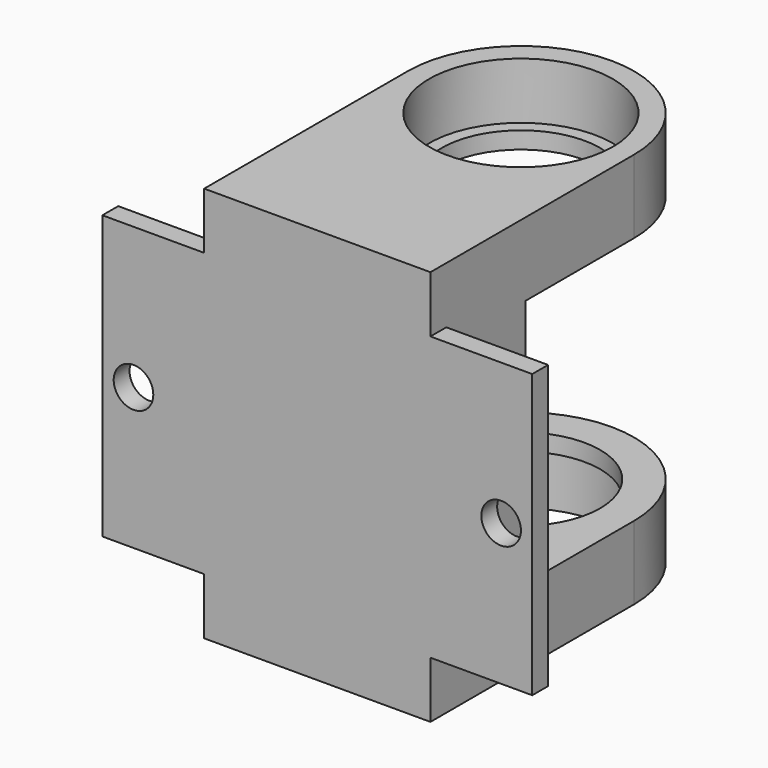
from build123d import *

# Parameters (mm, degrees)
SKETCH002_AS_DRAWN_W                 = 76
SKETCH002_AS_DRAWN_H                 = 50
SKETCH002_AS_DRAWN_R                 = 3.5
EXTRUDE003_DEPTH                     = 3.5
EXTRUDE003_ONTO_SKETCH002_ROLL_ANGLE = 90
CYLINDER_R                           = 16.25
CYLINDER_DEPTH                       = 10
SKETCH_R                             = 14
EXTRUDE001_DEPTH                     = 13
CYLINDER001_R                        = 16.25
CYLINDER001_DEPTH                    = 10
EXTRUDE_DEPTH                        = 13
SKETCH001_AS_DRAWN_W                 = 40
SKETCH001_AS_DRAWN_H                 = 70
EXTRUDE002_DEPTH                     = 21
EXTRUDE002_ONTO_SKETCH001_ROLL_ANGLE = 90


with BuildPart() as extrude003:
    # Sketch002 as drawn → Extrude003 (new)
    with BuildSketch(Plane.XY):
        Rectangle(SKETCH002_AS_DRAWN_W, SKETCH002_AS_DRAWN_H)
        with Locations((-32.5, 0)):
            Circle(SKETCH002_AS_DRAWN_R, mode=Mode.SUBTRACT)
        with Locations((32.5, 0)):
            Circle(SKETCH002_AS_DRAWN_R, mode=Mode.SUBTRACT)
    extrude(amount=-EXTRUDE003_DEPTH)


with BuildPart() as extrude003_1:
    # Extrude003 onto Sketch002 roll: moved
    add(extrude003.part.rotate(Axis((0, 0, 0), (1, 0, 0)), EXTRUDE003_ONTO_SKETCH002_ROLL_ANGLE))


with BuildPart() as extrude003_2:
    # Extrude003 onto Sketch002 placement: moved
    add(extrude003_1.part)


with BuildPart() as extrude003_3:
    # Extrude003 placement: moved
    add(extrude003_2.part.moved(Location((0, -45, 0))))


with BuildPart() as cylinder:
    # Cylinder → Cylinder (new body)
    with BuildSketch(Plane.XY):
        Circle(CYLINDER_R)
    extrude(amount=CYLINDER_DEPTH)


with BuildPart() as obj1:
    # Sketch → Extrude001 (new body)
    with BuildSketch(Plane.XY):
        with BuildLine():
            ThreePointArc((20, 0), (0, 20), (-20, 0))
            Line((-20, 0), (-20, -35))
            Line((-20, -35), (20, -35))
            Line((20, -35), (20, 0))
        make_face()
        Circle(SKETCH_R, mode=Mode.SUBTRACT)
    extrude(amount=EXTRUDE001_DEPTH)

    # Cut: cut Cylinder
    add(cylinder.part, mode=Mode.SUBTRACT)


with BuildPart() as obj1_1:
    # Cut placement: moved
    add(obj1.part.moved(Location((0, 0, -35))))


with BuildPart() as cylinder001:
    # Cylinder001 → Cylinder001 (new body)
    with BuildSketch(Plane.XY.offset(3)):
        Circle(CYLINDER001_R)
    extrude(amount=CYLINDER001_DEPTH)


with BuildPart() as bearing_nest_r_cut:
    # Sketch → Extrude (new body)
    with BuildSketch(Plane.XY):
        with BuildLine():
            ThreePointArc((20, 0), (0, 20), (-20, 0))
            Line((-20, 0), (-20, -35))
            Line((-20, -35), (20, -35))
            Line((20, -35), (20, 0))
        make_face()
        Circle(SKETCH_R, mode=Mode.SUBTRACT)
    extrude(amount=EXTRUDE_DEPTH)

    # Cut001: cut Cylinder001
    add(cylinder001.part, mode=Mode.SUBTRACT)


with BuildPart() as bearing_nest_r_cut_1:
    # Cut001 placement: moved
    add(bearing_nest_r_cut.part.moved(Location((0, 0, 22))))


with BuildPart() as fusion:
    # Sketch001 as drawn → Extrude002 (new)
    with BuildSketch(Plane.XY):
        Rectangle(SKETCH001_AS_DRAWN_W, SKETCH001_AS_DRAWN_H)
    extrude(amount=-EXTRUDE002_DEPTH)


with BuildPart() as fusion_1:
    # Extrude002 onto Sketch001 roll: moved
    add(fusion.part.rotate(Axis((0, 0, 0), (1, 0, 0)), EXTRUDE002_ONTO_SKETCH001_ROLL_ANGLE))


with BuildPart() as fusion_2:
    # Extrude002 onto Sketch001 placement: moved
    add(fusion_1.part)


with BuildPart() as fusion_3:
    # Extrude002 placement: moved
    add(fusion_2.part.moved(Location((0, -45, 0))))

    # Fusion: union Extrude003, obj1, bearing-nest-r-cut
    add(extrude003_3.part)
    add(obj1_1.part)
    add(bearing_nest_r_cut_1.part)


solid = fusion_3.part
